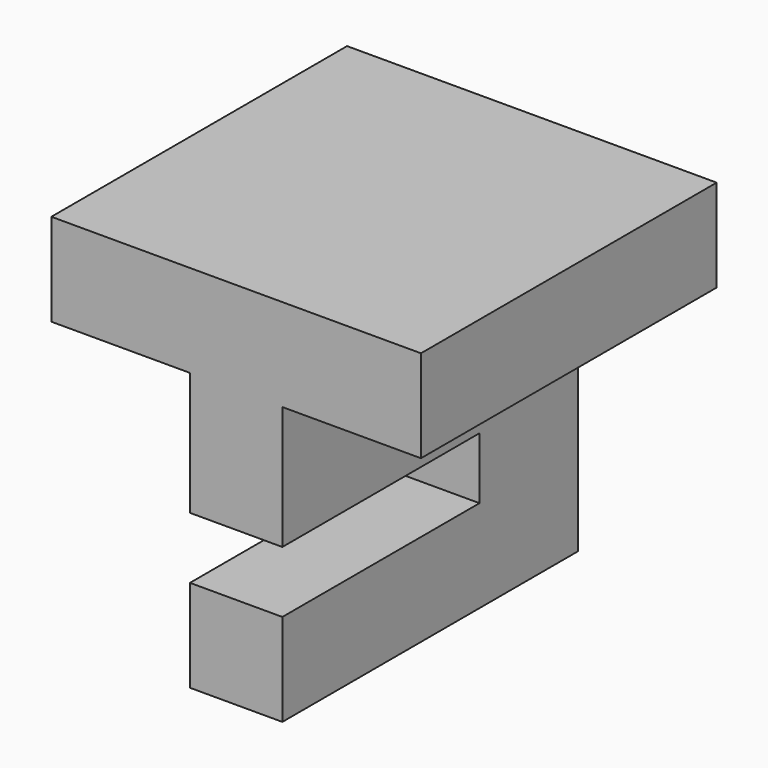
from build123d import *

# Parameters (mm, degrees)
F0_W     = 9.525
F0_H     = 28.575
F1_DEPTH = 38.1
F2_W     = 25.4
F2_H     = 6.35
F3_DEPTH = 25.4


with BuildPart() as f1:
    # F0 (on Front) → F1 (new body)
    with BuildSketch(Plane.XZ):
        Polygon((38.1, 38.1), (0, 38.1), (0, 28.575), (14.2875, 28.575), (23.8125, 28.575), (38.1, 28.575), align=None)
        with Locations((19.05, 14.2875)):
            Rectangle(F0_W, F0_H)
    extrude(amount=F1_DEPTH)

    # F2 (on face) → F3 (cut)
    with BuildSketch(Plane.YZ.offset(38.1)):
        with Locations((-25.4, 12.7)):
            Rectangle(F2_W, F2_H)
        with Locations((-12.7, 25.4)):
            Rectangle(F2_W, F2_H)
    extrude(amount=-F3_DEPTH, mode=Mode.SUBTRACT)


solid = f1.part
